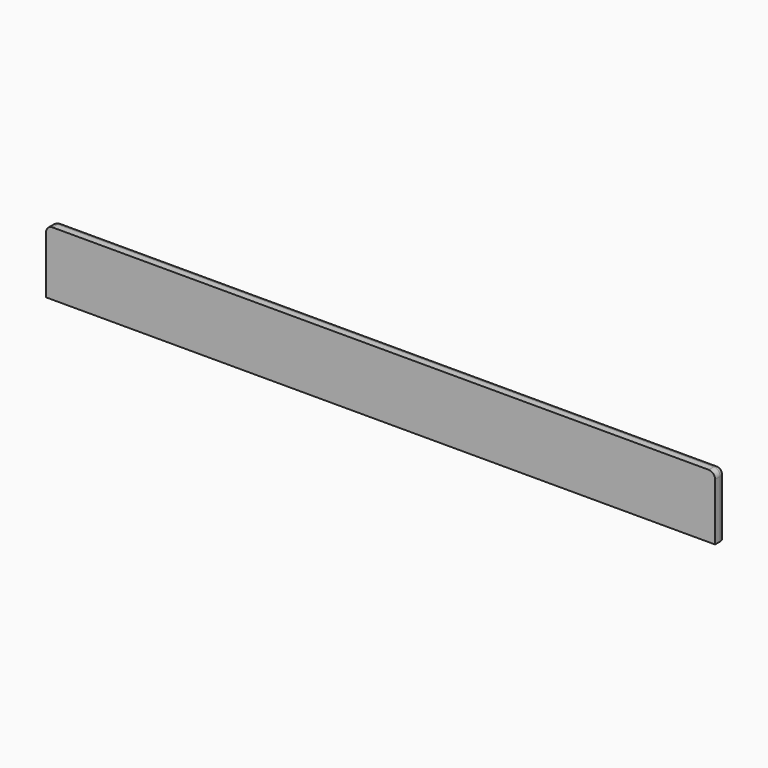
from build123d import *

# Parameters (mm, degrees)
SKETCH008_W  = 105
SKETCH008_H  = 10
PAD007_DEPTH = 2
FILLET012_R  = 1
FILLET014_R  = 1
FILLET023_R  = 1


with BuildPart() as part:
    # Sketch008 → Pad007 (new body)
    with BuildSketch(Plane.XZ):
        with Locations((0, 5)):
            Rectangle(SKETCH008_W, SKETCH008_H)
    extrude(amount=PAD007_DEPTH)

    # Fillet012
    fillet012_edges = [part.edges().sort_by_distance(p)[0] for p in [
        (52.5, 0, 5),
    ]]
    fillet(fillet012_edges, radius=FILLET012_R)

    # Fillet014
    fillet014_edges = [part.edges().sort_by_distance(p)[0] for p in [
        (-52.5, 0, 5),
    ]]
    fillet(fillet014_edges, radius=FILLET014_R)

    # Fillet023
    fillet023_edges = [part.edges().sort_by_distance(p)[0] for p in [
        (0, 0, 10),
    ]]
    fillet(fillet023_edges, radius=FILLET023_R)


with BuildPart() as part_1:
    # Body007 placement: moved
    add(part.part.moved(Location((0, 32.5, 36))))


solid = part_1.part
